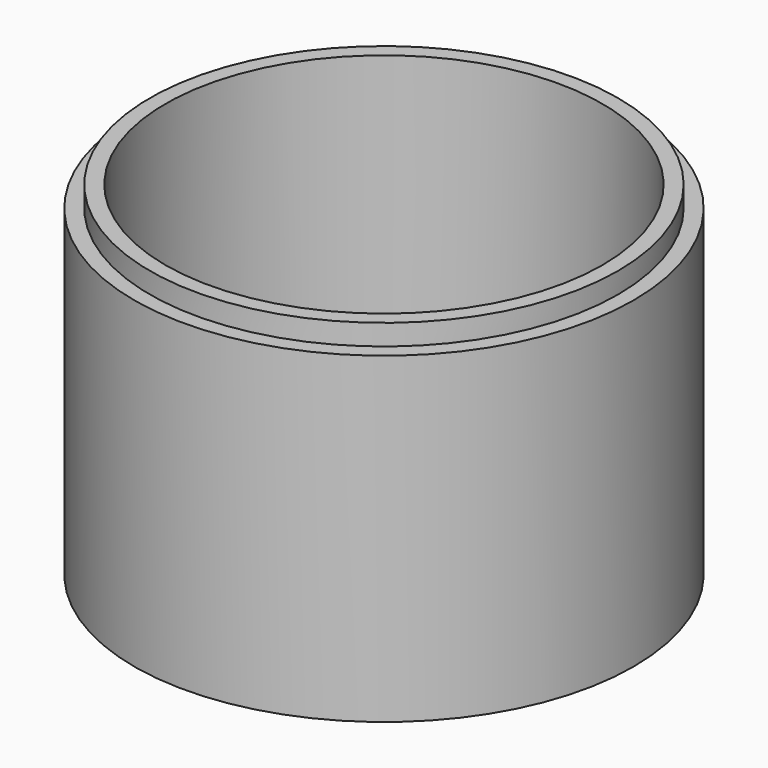
from build123d import *

# Parameters (mm, degrees)
F0_R     = 60
F1_DEPTH = 7.5
F2_R     = 60
F2_R_2   = 52.5
F3_DEPTH = 75
F4_R     = 60
F4_R_2   = 56.25
F5_DEPTH = 5


with BuildPart() as f1:
    # F0 (on Top) → F1 (new body)
    with BuildSketch(Plane.XY):
        Circle(F0_R)
    extrude(amount=F1_DEPTH)

    # F2 (on face) → F3 (join)
    with BuildSketch(Plane.XY.offset(7.5)):
        Circle(F2_R)
        Circle(F2_R_2, mode=Mode.SUBTRACT)
    extrude(amount=F3_DEPTH)

    # F4 (on face) → F5 (cut)
    with BuildSketch(Plane.XY.offset(82.5)):
        Circle(F4_R)
        Circle(F4_R_2, mode=Mode.SUBTRACT)
    extrude(amount=-F5_DEPTH, mode=Mode.SUBTRACT)


solid = f1.part
